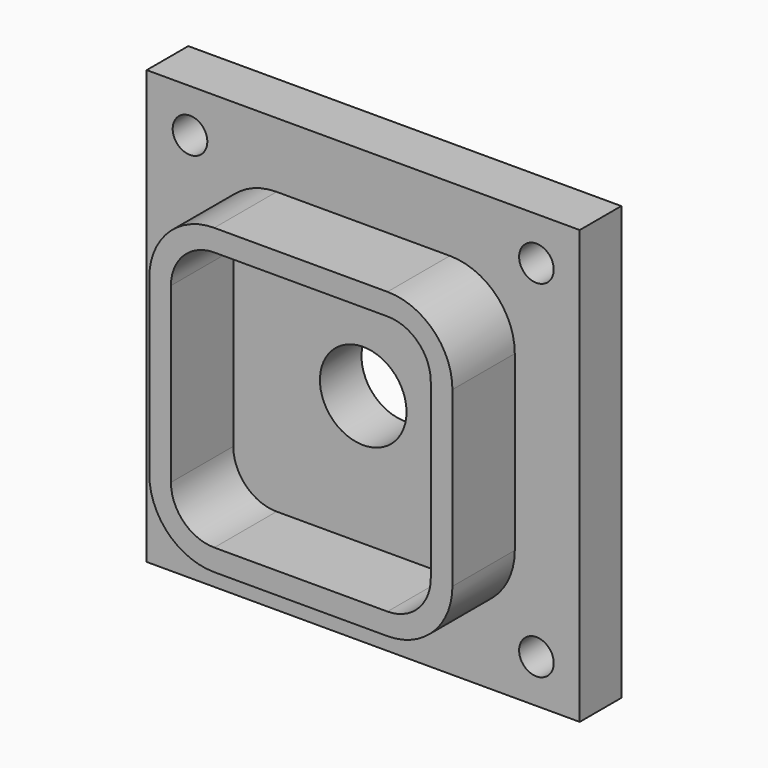
from build123d import *

# Parameters (mm, degrees)
F0_W     = 100
F0_H     = 100
F1_DEPTH = 12
F2_R     = 4
F3_DEPTH = 25
F4_R     = 10
F5_DEPTH = 25
F8_DEPTH = 18
F9_DEPTH = 25


with BuildPart() as f1:
    # F0 (on Front) → F1 (new body)
    with BuildSketch(Plane.XZ):
        with Locations((-50, 50)):
            Rectangle(F0_W, F0_H)
    extrude(amount=-F1_DEPTH)

    # F2 (on face) → F3 (cut)
    with BuildSketch(Plane.XZ):
        with Locations((-90, 90)):
            Circle(F2_R)
        with Locations((-10, 90)):
            Circle(F2_R)
        with Locations((-10, 10)):
            Circle(F2_R)
        with Locations((-90, 10)):
            Circle(F2_R)
    extrude(amount=-F3_DEPTH, mode=Mode.SUBTRACT)

    # F4 (on face) → F5 (cut)
    with BuildSketch(Plane.XZ):
        with Locations((-50, 50)):
            Circle(F4_R)
    extrude(amount=-F5_DEPTH, mode=Mode.SUBTRACT)

    # F6 (on face) → F8 (join)
    with BuildSketch(Plane.XZ):
        with BuildLine():
            Line((-30, 85), (-70, 85))
            ThreePointArc((-70, 85), (-80.606602, 80.606602), (-85, 70))
            Line((-85, 70), (-85, 30))
            ThreePointArc((-85, 30), (-80.606602, 19.393398), (-70, 15))
            Line((-70, 15), (-30, 15))
            ThreePointArc((-30, 15), (-19.393398, 19.393398), (-15, 30))
            Line((-15, 30), (-15, 70))
            ThreePointArc((-15, 70), (-19.393398, 80.606602), (-30, 85))
        make_face()
    extrude(amount=F8_DEPTH)

    # F7 (on face) → F9 (cut)
    with BuildSketch(Plane.XZ):
        with BuildLine():
            Line((-30, 80), (-70, 80))
            ThreePointArc((-70, 80), (-77.071068, 77.071068), (-80, 70))
            Line((-80, 70), (-80, 30))
            ThreePointArc((-80, 30), (-77.071068, 22.928932), (-70, 20))
            Line((-70, 20), (-30, 20))
            ThreePointArc((-30, 20), (-22.928932, 22.928932), (-20, 30))
            Line((-20, 30), (-20, 70))
            ThreePointArc((-20, 70), (-22.928932, 77.071068), (-30, 80))
        make_face()
    extrude(amount=F9_DEPTH, mode=Mode.SUBTRACT)


solid = f1.part
